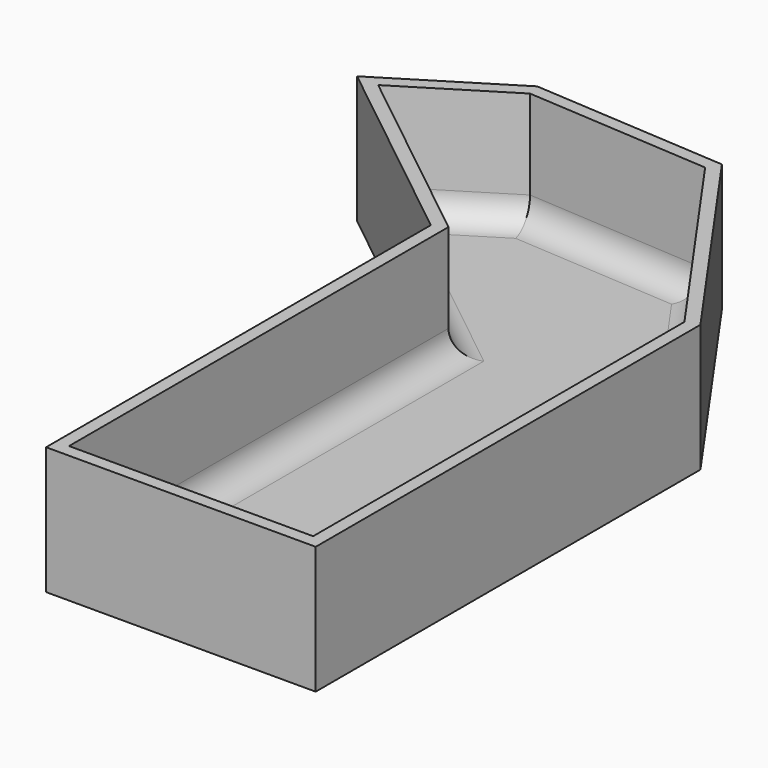
from build123d import *

# Parameters (mm, degrees)
F1_DEPTH = 25.4
F2_DEPTH = 95.758
F3_T     = -2.54
F4_R     = 5.08


with BuildPart() as f1:
    # F0 (on Top) → F1 (new body)
    with BuildSketch(Plane.XY):
        Polygon((-26.5582557768, 28.8428422064), (-50.5463592708, 13.993062079), (-10.2806119248, -17.9910771549), (43.4070453048, -17.9910771549), (12.2796297073, 26.272688061), align=None)
    extrude(amount=F1_DEPTH)

    # F2 (add): a face of the model
    f2_faces = [f1.faces().sort_by_distance(p)[0] for p in [
        (16.56321669, -17.9910771549, 12.7),
    ]]
    extrude(f2_faces, amount=F2_DEPTH)

    # F3
    f3_openings = [f1.faces().sort_by_distance(p)[0] for p in [
        (9.617163, -41.24323, 25.4),
    ]]
    offset(amount=F3_T, openings=f3_openings, kind=Kind.INTERSECTION)

    # F4
    f4_edges = [f1.edges().sort_by_distance(p)[0] for p in [
        (40.867045, -65.001919, 2.54),
        (16.563217, -111.209077, 2.54),
        (-7.740612, -63.98697, 2.54),
        (-26.939148, -1.514961, 2.54),
        (-36.025631, 19.994782, 2.54),
        (-7.506603, 25.036515, 2.54),
        (25.883709, 2.511823, 2.54),
    ]]
    fillet(f4_edges, radius=F4_R)


solid = f1.part
